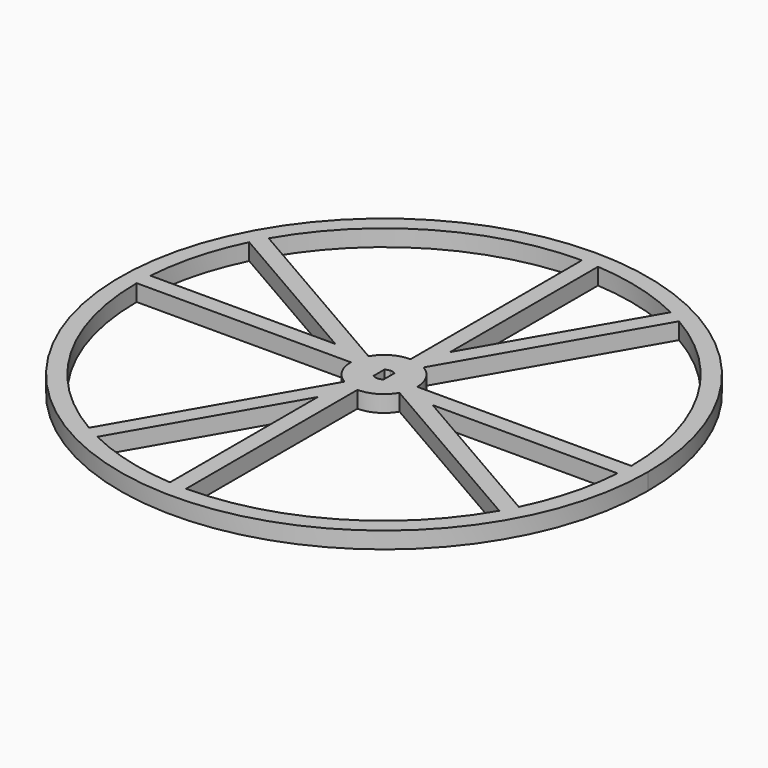
from build123d import *

# Parameters (mm, degrees)
F1_DEPTH = 5


with BuildPart() as f1:
    # F0 (on Top) → F1 (new body)
    with BuildSketch(Plane.XY):
        with BuildLine():
            ThreePointArc((0, 79.5), (-56.2149891043, -56.2149891043), (79.5, 0))
            ThreePointArc((79.5, 0), (56.2149891043, 56.2149891043), (0, 79.5))
        make_face()
        with BuildLine():
            ThreePointArc((-64.5188925819, 37.25), (-37.25, 64.5188925819), (0, 74.5))
            ThreePointArc((0, 74.5), (2.5014103755, 74.4579945079), (5, 74.3320253996))
            ThreePointArc((5, 74.3320253996), (19.2820188601, 71.9614740585), (32.8358856809, 66.8734223108))
            ThreePointArc((32.8358856809, 66.8734223108), (35.0627123235, 65.7332199464), (37.25, 64.5188925819))
            ThreePointArc((37.25, 64.5188925819), (64.5188925819, 37.25), (74.5, 0))
            ThreePointArc((74.5, 0), (74.4579945079, -2.5014103755), (74.3320253996, -5))
            ThreePointArc((74.3320253996, -5), (71.9614740585, -19.2820188601), (66.8734223108, -32.8358856809))
            ThreePointArc((66.8734223108, -32.8358856809), (65.7332199464, -35.0627123235), (64.5188925819, -37.25))
            ThreePointArc((64.5188925819, -37.25), (37.25, -64.5188925819), (0, -74.5))
            ThreePointArc((0, -74.5), (-2.5014103755, -74.4579945079), (-5, -74.3320253996))
            ThreePointArc((-5, -74.3320253996), (-19.2820188601, -71.9614740585), (-32.8358856809, -66.8734223108))
            ThreePointArc((-32.8358856809, -66.8734223108), (-35.0627123235, -65.7332199464), (-37.25, -64.5188925819))
            ThreePointArc((-37.25, -64.5188925819), (-64.5188925819, -37.25), (-74.5, 0))
            ThreePointArc((-74.5, 0), (-74.4579945079, 2.5014103755), (-74.3320253996, 5))
            ThreePointArc((-74.3320253996, 5), (-71.9614740585, 19.2820188601), (-66.8734223108, 32.8358856809))
            ThreePointArc((-66.8734223108, 32.8358856809), (-65.7332199464, 35.0627123235), (-64.5188925819, 37.25))
        make_face(mode=Mode.SUBTRACT)
        with BuildLine():
            Line((-8.6602540378, 5), (-64.5188925819, 37.25))
            ThreePointArc((-64.5188925819, 37.25), (-65.7332199464, 35.0627123235), (-66.8734223108, 32.8358856809))
            Line((-66.8734223108, 32.8358856809), (-18.6602540378, 5))
            Line((-18.6602540378, 5), (-74.3320253996, 5))
            ThreePointArc((-74.3320253996, 5), (-74.4579945079, 2.5014103755), (-74.5, 0))
            Line((-74.5, 0), (-10, 0))
            ThreePointArc((-10, 0), (-9.6592582629, 2.588190451), (-8.6602540378, 5))
        make_face()
        with BuildLine():
            Line((74.5, 0), (10, 0))
            ThreePointArc((10, 0), (9.6592582629, -2.588190451), (8.6602540378, -5))
            Line((8.6602540378, -5), (64.5188925819, -37.25))
            ThreePointArc((64.5188925819, -37.25), (65.7332199464, -35.0627123235), (66.8734223108, -32.8358856809))
            Line((66.8734223108, -32.8358856809), (18.6602540378, -5))
            Line((18.6602540378, -5), (74.3320253996, -5))
            ThreePointArc((74.3320253996, -5), (74.4579945079, -2.5014103755), (74.5, 0))
        make_face()
        with BuildLine():
            ThreePointArc((0, -10), (-2.588190451, -9.6592582629), (-5, -8.6602540378))
            Line((-5, -8.6602540378), (-37.25, -64.5188925819))
            ThreePointArc((-37.25, -64.5188925819), (-35.0627123235, -65.7332199464), (-32.8358856809, -66.8734223108))
            Line((-32.8358856809, -66.8734223108), (-5, -18.6602540378))
            Line((-5, -18.6602540378), (-5, -74.3320253996))
            ThreePointArc((-5, -74.3320253996), (-2.5014103755, -74.4579945079), (0, -74.5))
            Line((0, -74.5), (0, -10))
        make_face()
        with BuildLine():
            ThreePointArc((5, 74.3320253996), (2.5014103755, 74.4579945079), (0, 74.5))
            Line((0, 74.5), (0, 10))
            ThreePointArc((0, 10), (2.588190451, 9.6592582629), (5, 8.6602540378))
            Line((5, 8.6602540378), (37.25, 64.5188925819))
            ThreePointArc((37.25, 64.5188925819), (35.0627123235, 65.7332199464), (32.8358856809, 66.8734223108))
            Line((32.8358856809, 66.8734223108), (5, 18.6602540378))
            Line((5, 18.6602540378), (5, 74.3320253996))
        make_face()
        with BuildLine():
            ThreePointArc((8.6602540378, -5), (9.6592582629, -2.588190451), (10, 0))
            Line((10, 0), (2.5, 0))
            ThreePointArc((2.5, 0), (2.4148145657, -0.6470476128), (2.1650635095, -1.25))
            Line((2.1650635095, -1.25), (8.6602540378, -5))
        make_face()
        with BuildLine():
            ThreePointArc((0, -10), (5, -8.6602540378), (8.6602540378, -5))
            Line((8.6602540378, -5), (2.1650635095, -1.25))
            ThreePointArc((2.1650635095, -1.25), (1.8705073194, -1.6586748831), (1.5, -2))
            ThreePointArc((1.5, -2), (0.790569415, -2.3717082451), (0, -2.5))
            Line((0, -2.5), (0, -10))
        make_face()
        with BuildLine():
            ThreePointArc((10, 0), (8.6602540378, 5), (5, 8.6602540378))
            Line((5, 8.6602540378), (1.25, 2.1650635095))
            ThreePointArc((1.25, 2.1650635095), (1.3774746787, 2.0862798253), (1.5, 2))
            ThreePointArc((1.5, 2), (2.2360679775, 1.1180339887), (2.5, 0))
            Line((2.5, 0), (10, 0))
        make_face()
        with BuildLine():
            ThreePointArc((5, 8.6602540378), (2.588190451, 9.6592582629), (0, 10))
            Line((0, 10), (0, 2.5))
            ThreePointArc((0, 2.5), (0.6470476128, 2.4148145657), (1.25, 2.1650635095))
            Line((1.25, 2.1650635095), (5, 8.6602540378))
        make_face()
        with BuildLine():
            Line((0, 2.5), (0, 10))
            ThreePointArc((0, 10), (-5, 8.6602540378), (-8.6602540378, 5))
            Line((-8.6602540378, 5), (-2.1650635095, 1.25))
            ThreePointArc((-2.1650635095, 1.25), (-1.8705073194, 1.6586748831), (-1.5, 2))
            ThreePointArc((-1.5, 2), (-0.790569415, 2.3717082451), (0, 2.5))
        make_face()
        with BuildLine():
            Line((-2.1650635095, 1.25), (-8.6602540378, 5))
            ThreePointArc((-8.6602540378, 5), (-9.6592582629, 2.588190451), (-10, 0))
            Line((-10, 0), (-2.5, 0))
            ThreePointArc((-2.5, 0), (-2.4148145657, 0.6470476128), (-2.1650635095, 1.25))
        make_face()
        with BuildLine():
            Line((-2.5, 0), (-10, 0))
            ThreePointArc((-10, 0), (-8.6602540378, -5), (-5, -8.6602540378))
            Line((-5, -8.6602540378), (-1.25, -2.1650635095))
            ThreePointArc((-1.25, -2.1650635095), (-1.3774746787, -2.0862798253), (-1.5, -2))
            ThreePointArc((-1.5, -2), (-2.2360679775, -1.1180339887), (-2.5, 0))
        make_face()
        with BuildLine():
            Line((-1.25, -2.1650635095), (-5, -8.6602540378))
            ThreePointArc((-5, -8.6602540378), (-2.588190451, -9.6592582629), (0, -10))
            Line((0, -10), (0, -2.5))
            ThreePointArc((0, -2.5), (-0.6470476128, -2.4148145657), (-1.25, -2.1650635095))
        make_face()
        with BuildLine():
            ThreePointArc((2.1650635095, -1.25), (2.4148145657, -0.6470476128), (2.5, 0))
            Line((2.5, 0), (1.5, 0))
            Line((1.5, 0), (1.5, -0.8660254038))
            Line((1.5, -0.8660254038), (2.1650635095, -1.25))
        make_face()
        with BuildLine():
            Line((1.5, 0), (2.5, 0))
            ThreePointArc((2.5, 0), (2.2360679775, 1.1180339887), (1.5, 2))
            Line((1.5, 2), (1.5, 0))
        make_face()
        with BuildLine():
            Line((2.1650635095, -1.25), (1.5, -0.8660254038))
            Line((1.5, -0.8660254038), (1.5, -2))
            ThreePointArc((1.5, -2), (1.8705073194, -1.6586748831), (2.1650635095, -1.25))
        make_face()
        with BuildLine():
            Line((-1.5, 0), (-2.5, 0))
            ThreePointArc((-2.5, 0), (-2.2360679775, -1.1180339887), (-1.5, -2))
            Line((-1.5, -2), (-1.5, 0))
        make_face()
        with BuildLine():
            Line((-1.5, 0.8660254038), (-2.1650635095, 1.25))
            ThreePointArc((-2.1650635095, 1.25), (-2.4148145657, 0.6470476128), (-2.5, 0))
            Line((-2.5, 0), (-1.5, 0))
            Line((-1.5, 0), (-1.5, 0.8660254038))
        make_face()
        with BuildLine():
            ThreePointArc((-1.5, 2), (-1.8705073194, 1.6586748831), (-2.1650635095, 1.25))
            Line((-2.1650635095, 1.25), (-1.5, 0.8660254038))
            Line((-1.5, 0.8660254038), (-1.5, 2))
        make_face()
    extrude(amount=F1_DEPTH)


solid = f1.part
